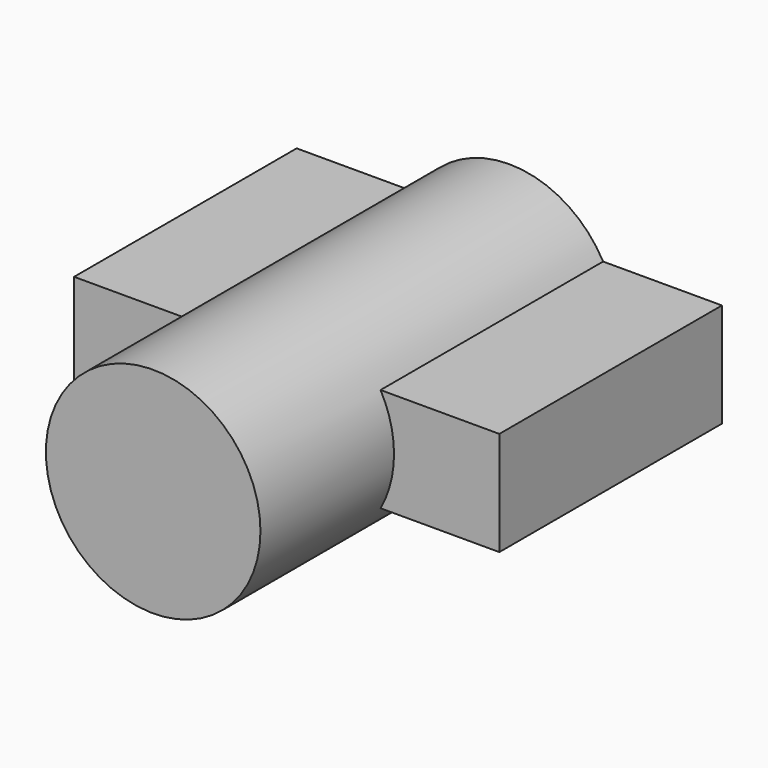
from build123d import *

# Parameters (mm, degrees)
F0_R     = 48.978495
F1_DEPTH = 203.2
F2_W     = 194.122628
F2_H     = 47.510494
F3_DEPTH = 127


with BuildPart() as f1:
    # F0 (on Front) → F1 (new body)
    with BuildSketch(Plane.XZ):
        Circle(F0_R)
    extrude(amount=F1_DEPTH)

    # F2 (on Front) → F3 (join)
    with BuildSketch(Plane.XZ):
        Rectangle(F2_W, F2_H)
    extrude(amount=F3_DEPTH)


solid = f1.part
